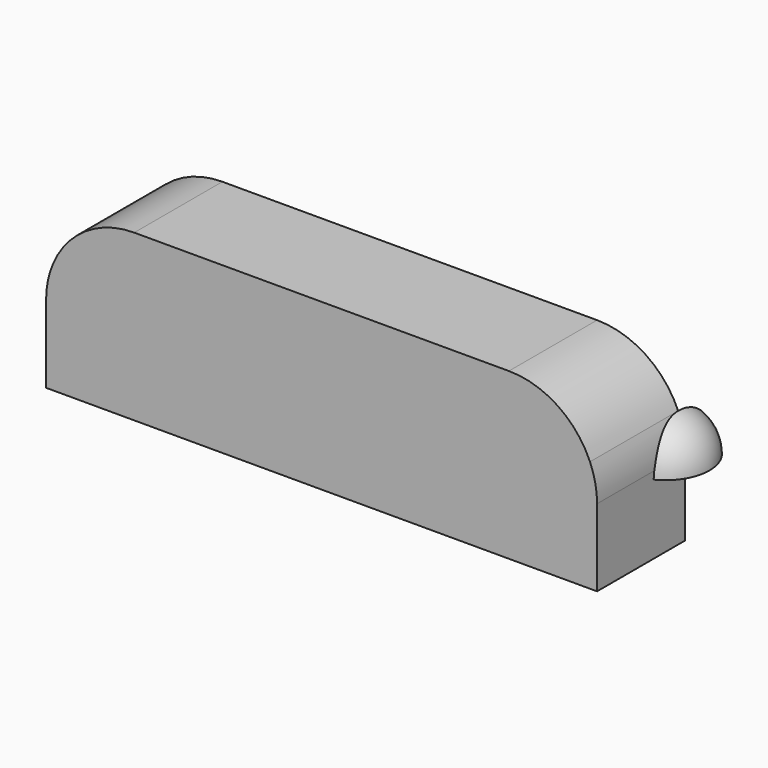
from build123d import *

# Parameters (mm, degrees)
F3_DEPTH      = 25.4
F4_ANGLE_BACK = 90
F4_ANGLE      = 180


with BuildPart() as f3:
    # F2 (on offset) → F3 (new body)
    with BuildSketch(Plane.XZ.offset(25.4)):
        with BuildLine():
            Line((111.518352419, 2.54), (111.518352419, 17.78))
            ThreePointArc((111.518352419, 17.78), (111.1052602487, 21.8564470631), (109.8827795196, 25.7671511769))
            ThreePointArc((109.8827795196, 25.7671511769), (102.3921785764, 34.7387928803), (91.198352419, 38.1))
            Line((91.198352419, 38.1), (4.838352419, 38.1))
            ThreePointArc((4.838352419, 38.1), (-6.3554737384, 34.7387928803), (-13.8460746816, 25.7671511769))
            ThreePointArc((-13.8460746816, 25.7671511769), (-15.0685554108, 21.8564470631), (-15.481647581, 17.78))
            Line((-15.481647581, 17.78), (-15.481647581, 16.035139312))
            Line((-15.481647581, 16.035139312), (-15.481647581, 0))
            Line((-15.481647581, 0), (111.518352419, 0))
            Line((111.518352419, 0), (111.518352419, 2.54))
        make_face()
    extrude(amount=-F3_DEPTH)

    # F0 (on Front) → F4 (revolve)
    with BuildSketch(Plane.XZ, mode=Mode.PRIVATE) as f4_sk:
        with BuildLine():
            ThreePointArc((117.1249815379, 16.035139312), (115.1157614851, 22.1006472259), (109.8827795196, 25.7671511769))
            ThreePointArc((109.8827795196, 25.7671511769), (111.1052602487, 21.8564470631), (111.518352419, 17.78))
            Line((111.518352419, 17.78), (111.518352419, 16.035139312))
            Line((111.518352419, 16.035139312), (117.1249815379, 16.035139312))
        make_face()
    revolve(f4_sk.sketch.rotate(Axis((114.3216669785, 0, 16.035139312), (-1, 0, 0)), -F4_ANGLE_BACK), axis=Axis((114.3216669785, 0, 16.035139312), (-1, 0, 0)), revolution_arc=F4_ANGLE)


solid = f3.part
